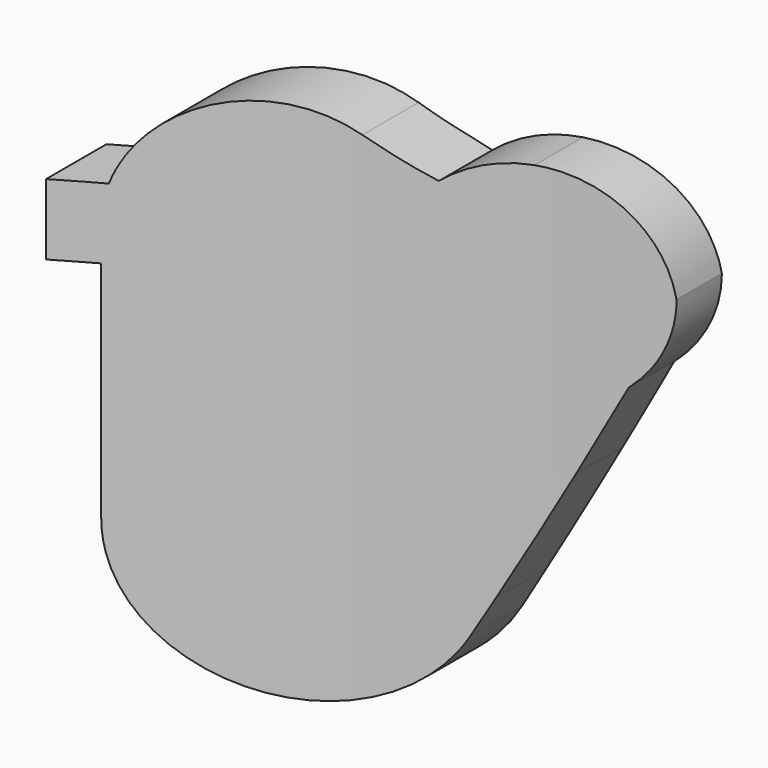
from build123d import *

# Parameters (mm, degrees)
F2_DEPTH = 125
F3_DEPTH = 70


with BuildPart() as f2:
    # F1 (on Top) → F2 (new body, symmetric)
    with BuildSketch(Plane.XY):
        with BuildLine():
            Line((-20.1173815044, -12), (-20.1173815044, 0))
            Line((-20.1173815044, 0), (-62.3327026961, -12))
            ThreePointArc((-62.3327026961, -12), (-94.4307756153, -25.3430684038), (-124.9798869452, -41.9284703137))
            Line((-124.9798869452, -41.9284703137), (-124.9798869452, -57.8970238566))
            ThreePointArc((-124.9798869452, -57.8970238566), (-74.0948586353, -31.4157999565), (-20.1173815044, -12))
        make_face()
    extrude(amount=F2_DEPTH, both=True)

    # F0 (on Front) → F3 (intersect)
    with BuildSketch(Plane.XZ):
        with BuildLine():
            ThreePointArc((-50.3424681349, 2.011881357), (-43.7035916624, 14.6823543144), (-37.1786620038, 27.411881357))
            Line((-37.1786620038, 27.411881357), (-40.5631333527, 27.411881357))
            Line((-40.5631333527, 27.411881357), (-53.0749750304, 2.011881357))
            Line((-53.0749750304, 2.011881357), (-50.3424681349, 2.011881357))
        make_face()
        with BuildLine():
            ThreePointArc((-111.5308457017, 8.2367736608), (-111.3684921212, 5.1075260751), (-110.883174785, 2.011881357))
            Line((-110.883174785, 2.011881357), (-108.5308457017, 2.011881357))
            Line((-108.5308457017, 2.011881357), (-108.5308457017, 27.411881357))
            Line((-108.5308457017, 27.411881357), (-111.5308457017, 27.411881357))
            Line((-111.5308457017, 27.411881357), (-111.5308457017, 8.2367736608))
        make_face()
        with BuildLine():
            ThreePointArc((-58.7104798901, 72.082701381), (-52.1284588148, 76.9699120882), (-44.1155466177, 78.7022711894))
            Line((-44.1155466177, 78.7022711894), (-44.1155466177, 83.6194937793))
            ThreePointArc((-44.1155466177, 83.6194937793), (-52.4168726575, 82.1584911266), (-59.720801287, 77.9514530539))
            Line((-59.720801287, 77.9514530539), (-58.7104798901, 72.0827013811))
        make_face()
        with BuildLine():
            ThreePointArc((-74.6417350745, 80.4472095387), (-66.8801209506, 75.8763862144), (-58.7104798901, 72.082701381))
            Line((-58.7104798901, 72.0827013811), (-59.720801287, 77.9514530539))
            ThreePointArc((-59.720801287, 77.9514530539), (-65.9419328873, 81.0470499739), (-71.8975987059, 84.6268884248))
            ThreePointArc((-71.8975987059, 84.6268884248), (-94.6263251651, 87.3063473236), (-110.4082532694, 70.7321127484))
            Line((-110.4082532694, 70.7321127484), (-105.1175635416, 70.7325836032))
            ThreePointArc((-105.1175635416, 70.7325836032), (-92.1947547892, 82.8526319552), (-74.6417350745, 80.4472095387))
        make_face()
        with BuildLine():
            ThreePointArc((-111.1327510691, 67.7321127484), (-110.8157710876, 69.2430451589), (-110.4082532694, 70.7321127484))
            Line((-110.4082532694, 70.7321127484), (-119.5308457017, 70.7321127484))
            Line((-119.5308457017, 70.7321127484), (-119.5308457017, 63.235962727))
            Line((-119.5308457017, 63.235962727), (-119.5308457017, 55.7321127484))
            Line((-119.5308457017, 55.7321127484), (-111.5308457017, 55.7321127484))
            Line((-111.5308457017, 55.7321127484), (-111.5308457017, 58.7321127484))
            Line((-111.5308457017, 58.7321127484), (-116.5308457017, 58.7321127484))
            Line((-116.5308457017, 58.7321127484), (-116.5308457017, 67.7321127484))
            Line((-116.5308457017, 67.7321127484), (-111.1327510691, 67.7321127484))
        make_face()
        with BuildLine():
            ThreePointArc((-106.5308457017, 63.235962727), (-106.1744404196, 67.0503005144), (-105.1175635416, 70.7325836032))
            Line((-105.1175635416, 70.7325836032), (-110.4082532694, 70.7321127484))
            ThreePointArc((-110.4082532694, 70.7321127484), (-110.8157710876, 69.2430451589), (-111.1327510691, 67.7321127484))
            ThreePointArc((-111.1327510691, 67.7321127484), (-111.4311277492, 65.4928324813), (-111.5308457017, 63.235962727))
            Line((-111.5308457017, 63.235962727), (-106.5308457017, 63.235962727))
        make_face()
        with BuildLine():
            Line((-44.1155466177, 83.6194937793), (-44.1155466177, 78.7022711894))
            ThreePointArc((-44.1155466177, 78.7022711894), (-35.3223638904, 76.5954709648), (-28.4390725201, 70.7321127484))
            Line((-28.4390725201, 70.7321127484), (-25.125950558, 70.7321127484))
            Line((-25.125950558, 70.7321127484), (-25.125950558, 67.7321127484))
            Line((-25.125950558, 67.7321127484), (-25.125950558, 63.2777618764))
            ThreePointArc((-25.125950558, 63.2777618764), (-25.1216548902, 63.2571921801), (-25.1173815044, 63.2366178431))
            Line((-25.1173815044, 63.2366178431), (-21.4978827913, 63.2366178431))
            Line((-21.4978827913, 63.2366178431), (-20.1173815044, 63.2366178431))
            ThreePointArc((-20.1173815044, 63.2366178431), (-28.3723488637, 77.8362607667), (-44.1155466177, 83.6194937793))
        make_face()
        with BuildLine():
            ThreePointArc((-28.3113232287, 45.1775518031), (-22.2616675499, 53.3210929585), (-20.1173815044, 63.2366178431))
            Line((-20.1173815044, 63.2366178431), (-21.4978827913, 63.2366178431))
            Line((-21.4978827913, 63.2366178431), (-25.1173815044, 63.2366178431))
            ThreePointArc((-25.1173815044, 63.2366178431), (-25.1195239016, 62.9513190082), (-25.125950558, 62.6660845201))
            Line((-25.125950558, 62.6660845201), (-25.125950558, 58.7321127484))
            Line((-25.125950558, 58.7321127484), (-25.125950558, 55.7321127484))
            Line((-25.125950558, 55.7321127484), (-26.6624366413, 55.7321127484))
            ThreePointArc((-26.6624366413, 55.7321127484), (-29.0361784259, 51.6807182081), (-32.3311047694, 48.3352872686))
            ThreePointArc((-32.3311047694, 48.3352872686), (-45.4552623154, 22.1922845204), (-59.058353819, -3.7047424426))
            ThreePointArc((-59.058353819, -3.7047424426), (-87.4494412294, -16.2389147483), (-106.5308457017, 8.2367736608))
            Line((-106.5308457017, 8.2367736608), (-106.5308457017, 63.235962727))
            Line((-106.5308457017, 63.235962727), (-111.5308457017, 63.235962727))
            Line((-111.5308457017, 63.235962727), (-111.5308457017, 60.235962727))
            Line((-111.5308457017, 60.235962727), (-111.5308457017, 58.7321127484))
            Line((-111.5308457017, 58.7321127484), (-111.5308457017, 55.7321127484))
            Line((-111.5308457017, 55.7321127484), (-111.5308457017, 46.235962727))
            Line((-111.5308457017, 46.235962727), (-111.5308457017, 43.235962727))
            Line((-111.5308457017, 43.235962727), (-111.5308457017, 27.411881357))
            Line((-111.5308457017, 27.411881357), (-108.5308457017, 27.411881357))
            Line((-108.5308457017, 27.411881357), (-108.5308457017, 2.011881357))
            Line((-108.5308457017, 2.011881357), (-110.883174785, 2.011881357))
            ThreePointArc((-110.883174785, 2.011881357), (-85.5948591136, -21.6937784963), (-54.6534526738, -6.0705078369))
            ThreePointArc((-54.6534526738, -6.0705078369), (-52.4921556845, -2.0324093613), (-50.3424681349, 2.011881357))
            Line((-50.3424681349, 2.011881357), (-53.0749750304, 2.011881357))
            Line((-53.0749750304, 2.011881357), (-40.5631333527, 27.411881357))
            Line((-40.5631333527, 27.411881357), (-37.1786620038, 27.411881357))
            ThreePointArc((-37.1786620038, 27.411881357), (-32.7173355733, 36.2809121829), (-28.3113232287, 45.1775518031))
        make_face()
        with BuildLine():
            ThreePointArc((-59.7874298203, 70.7366178431), (-59.2639132157, 71.4216272239), (-58.7104798901, 72.082701381))
            ThreePointArc((-58.7104798901, 72.082701381), (-66.8801209506, 75.8763862144), (-74.6417350745, 80.4472095387))
            ThreePointArc((-74.6417350745, 80.4472095387), (-92.1947547892, 82.8526319552), (-105.1175635416, 70.7325836032))
            Line((-105.1175635416, 70.7325836032), (-59.7874298203, 70.7366178431))
        make_face()
        with BuildLine():
            Line((-44.1625017472, 58.3259770467), (-44.1384770042, 73.0866154512))
            ThreePointArc((-44.1384770042, 73.0866154512), (-52.6930688519, 70.3809469556), (-58.1126715156, 63.2304511227))
            ThreePointArc((-58.1126715156, 63.2304511227), (-51.5611714322, 59.5733795212), (-44.1625017472, 58.3259770467))
        make_face()
        with BuildLine():
            ThreePointArc((-30.2525475407, 63.3421322906), (-35.6608853062, 70.4012237485), (-44.1384770042, 73.0866154512))
            Line((-44.1384770042, 73.0866154512), (-44.1625017472, 58.3259770467))
            ThreePointArc((-44.1625017472, 58.3259770467), (-36.7743073798, 59.6327297467), (-30.2525475407, 63.3421322906))
        make_face()
        with BuildLine():
            ThreePointArc((-28.4390725201, 70.7321127484), (-35.3223638904, 76.5954709648), (-44.1155466177, 78.7022711894))
            Line((-44.1155466177, 78.7022711894), (-44.1384770042, 73.0866154512))
            ThreePointArc((-44.1384770042, 73.0866154512), (-35.6608853062, 70.4012237485), (-30.2525475407, 63.3421322906))
            ThreePointArc((-30.2525475407, 63.3421322906), (-29.9896602119, 65.238638267), (-29.125950558, 66.9473952129))
            Line((-29.125950558, 66.9473952129), (-29.125950558, 67.7321127484))
            Line((-29.125950558, 67.7321127484), (-29.125950558, 70.7321127484))
            Line((-29.125950558, 70.7321127484), (-28.4390725201, 70.7321127484))
        make_face()
        with BuildLine():
            Line((-44.1384770042, 73.0866154512), (-44.1155466177, 78.7022711894))
            ThreePointArc((-44.1155466177, 78.7022711894), (-52.1284588148, 76.9699120882), (-58.7104798901, 72.082701381))
            ThreePointArc((-58.7104798901, 72.082701381), (-59.2639132157, 71.4216272239), (-59.7874298203, 70.7366178431))
            ThreePointArc((-59.7874298203, 70.7366178431), (-61.8511548442, 67.1637844674), (-63.1126715156, 63.2353401198))
            Line((-63.1126715156, 63.2353401197), (-58.1126715156, 63.2304511227))
            ThreePointArc((-58.1126715156, 63.2304511227), (-52.6930688519, 70.3809469556), (-44.1384770042, 73.0866154512))
        make_face()
        with BuildLine():
            ThreePointArc((-29.125950558, 60.0559074311), (-29.9399958244, 61.6130578308), (-30.2525475407, 63.3421322906))
            ThreePointArc((-30.2525475407, 63.3421322906), (-36.7743073798, 59.6327297467), (-44.1625017472, 58.3259770467))
            Line((-44.1625017472, 58.3259770467), (-44.1625663386, 58.2862925416))
            Line((-44.1625663386, 58.2862925416), (-44.1143876699, 44.2389745578))
            ThreePointArc((-44.1143876699, 44.2389745578), (-37.8769249189, 45.2923557317), (-32.3311047694, 48.3352872686))
            ThreePointArc((-32.3311047694, 48.3352872686), (-29.0361784259, 51.6807182081), (-26.6624366413, 55.7321127484))
            Line((-26.6624366413, 55.7321127484), (-29.125950558, 55.7321127484))
            Line((-29.125950558, 55.7321127484), (-29.125950558, 58.7321127484))
            Line((-29.125950558, 58.7321127484), (-29.125950558, 60.0559074311))
        make_face()
        with BuildLine():
            ThreePointArc((-63.1126715156, 63.2353401198), (-61.8511548442, 67.1637844674), (-59.7874298203, 70.7366178431))
            Line((-59.7874298203, 70.7366178431), (-105.1175635416, 70.7325836032))
            ThreePointArc((-105.1175635416, 70.7325836032), (-106.1744404196, 67.0503005144), (-106.5308457017, 63.235962727))
            Line((-106.5308457017, 63.235962727), (-63.1126715156, 63.2353401197))
        make_face()
        with BuildLine():
            ThreePointArc((-44.1625017472, 58.3259770467), (-51.5611714322, 59.5733795212), (-58.1126715156, 63.2304511227))
            Line((-58.1126715156, 63.2304511227), (-63.1126715156, 63.2353401197))
            ThreePointArc((-63.1126715156, 63.2353401198), (-57.5477119125, 49.8025777389), (-44.1143876699, 44.2389745578))
            Line((-44.1143876699, 44.2389745578), (-44.1625663386, 58.2862925416))
            Line((-44.1625663386, 58.2862925416), (-44.1625017472, 58.3259770467))
        make_face()
        with BuildLine():
            ThreePointArc((-44.1143876699, 44.2389745578), (-57.5477119125, 49.8025777389), (-63.1126715156, 63.2353401198))
            Line((-63.1126715156, 63.2353401197), (-106.5308457017, 63.235962727))
            Line((-106.5308457017, 63.235962727), (-106.5308457017, 8.2367736608))
            ThreePointArc((-106.5308457017, 8.2367736608), (-87.4494412294, -16.2389147483), (-59.058353819, -3.7047424426))
            ThreePointArc((-59.058353819, -3.7047424426), (-45.4552623154, 22.1922845204), (-32.3311047694, 48.3352872686))
            ThreePointArc((-32.3311047694, 48.3352872686), (-37.8769249189, 45.2923557317), (-44.1143876699, 44.2389745578))
        make_face()
        with BuildLine():
            Line((-111.5308457017, 60.235962727), (-111.5308457017, 63.235962727))
            ThreePointArc((-111.5308457017, 63.235962727), (-111.4311277492, 65.4928324813), (-111.1327510691, 67.7321127484))
            Line((-111.1327510691, 67.7321127484), (-116.5308457017, 67.7321127484))
            Line((-116.5308457017, 67.7321127484), (-116.5308457017, 58.7321127484))
            Line((-116.5308457017, 58.7321127484), (-111.5308457017, 58.7321127484))
            Line((-111.5308457017, 58.7321127484), (-111.5308457017, 60.235962727))
        make_face()
        with BuildLine():
            ThreePointArc((-27.7727110675, 58.7321127484), (-28.5034805512, 59.3386559133), (-29.125950558, 60.0559074311))
            Line((-29.125950558, 60.0559074311), (-29.125950558, 58.7321127484))
            Line((-29.125950558, 58.7321127484), (-27.7727110675, 58.7321127484))
        make_face()
        with BuildLine():
            ThreePointArc((-29.125950558, 66.9473952129), (-29.9896602119, 65.238638267), (-30.2525475407, 63.3421322906))
            Line((-30.2525475407, 63.3421322906), (-29.125950558, 63.3189836217))
            Line((-29.125950558, 63.3189836217), (-29.125950558, 66.9473952129))
        make_face()
        with BuildLine():
            ThreePointArc((-26.641623153, 67.7321127484), (-26.876272417, 68.2020802958), (-27.1235592075, 68.6655228662))
            ThreePointArc((-27.1235592075, 68.6655228662), (-27.8108334836, 68.2442520617), (-28.4333512304, 67.7321127484))
            Line((-28.4333512304, 67.7321127484), (-26.641623153, 67.7321127484))
        make_face()
        with BuildLine():
            Line((-25.6591349294, 58.7321127484), (-27.7727110675, 58.7321127484))
            ThreePointArc((-27.7727110675, 58.7321127484), (-26.8716219424, 58.2140455013), (-25.8927896329, 57.8644134178))
            ThreePointArc((-25.8927896329, 57.8644134178), (-25.7708311795, 58.2968813763), (-25.6591349294, 58.7321127484))
        make_face()
        with BuildLine():
            Line((-29.125950558, 63.3189836217), (-30.2525475407, 63.3421322906))
            ThreePointArc((-30.2525475407, 63.3421322906), (-29.9399958244, 61.6130578308), (-29.125950558, 60.0559074311))
            Line((-29.125950558, 60.0559074311), (-29.125950558, 63.3189836217))
        make_face()
        with BuildLine():
            Line((-25.125950558, 70.7321127484), (-28.4390725201, 70.7321127484))
            ThreePointArc((-28.4390725201, 70.7321127484), (-27.748664344, 69.7196025355), (-27.1235592075, 68.6655228662))
            ThreePointArc((-27.1235592075, 68.6655228662), (-26.876272417, 68.2020802958), (-26.641623153, 67.7321127484))
            Line((-26.641623153, 67.7321127484), (-25.125950558, 67.7321127484))
            Line((-25.125950558, 67.7321127484), (-25.125950558, 70.7321127484))
        make_face()
        with BuildLine():
            ThreePointArc((-27.1235592075, 68.6655228662), (-27.748664344, 69.7196025355), (-28.4390725201, 70.7321127484))
            Line((-28.4390725201, 70.7321127484), (-29.125950558, 70.7321127484))
            Line((-29.125950558, 70.7321127484), (-29.125950558, 67.7321127484))
            Line((-29.125950558, 67.7321127484), (-28.4333512304, 67.7321127484))
            ThreePointArc((-28.4333512304, 67.7321127484), (-27.8108334836, 68.2442520617), (-27.1235592075, 68.6655228662))
        make_face()
        with BuildLine():
            ThreePointArc((-25.8927896329, 57.8644134178), (-26.8716219424, 58.2140455013), (-27.7727110675, 58.7321127484))
            Line((-27.7727110675, 58.7321127484), (-29.125950558, 58.7321127484))
            Line((-29.125950558, 58.7321127484), (-29.125950558, 55.7321127484))
            Line((-29.125950558, 55.7321127484), (-26.6624366413, 55.7321127484))
            ThreePointArc((-26.6624366413, 55.7321127484), (-26.2457793974, 56.786772798), (-25.8927896329, 57.8644134178))
        make_face()
        with BuildLine():
            Line((-25.125950558, 67.7321127484), (-26.641623153, 67.7321127484))
            ThreePointArc((-26.641623153, 67.7321127484), (-25.7482509185, 65.5510558403), (-25.125950558, 63.2777618764))
            Line((-25.125950558, 63.2777618764), (-25.125950558, 67.7321127484))
        make_face()
        with BuildLine():
            Line((-25.125950558, 63.2367939151), (-29.125950558, 63.3189836217))
            Line((-29.125950558, 63.3189836217), (-29.125950558, 60.0559074311))
            ThreePointArc((-29.125950558, 60.0559074311), (-28.5034805512, 59.3386559133), (-27.7727110675, 58.7321127484))
            Line((-27.7727110675, 58.7321127484), (-25.6591349294, 58.7321127484))
            ThreePointArc((-25.6591349294, 58.7321127484), (-25.289500439, 60.6851329655), (-25.125950558, 62.6660845201))
            Line((-25.125950558, 62.6660845201), (-25.125950558, 63.2367939151))
        make_face()
        with BuildLine():
            ThreePointArc((-29.125950558, 66.9473952129), (-28.7973156506, 67.3553450664), (-28.4333512304, 67.7321127484))
            Line((-28.4333512304, 67.7321127484), (-29.125950558, 67.7321127484))
            Line((-29.125950558, 67.7321127484), (-29.125950558, 66.9473952129))
        make_face()
        with BuildLine():
            ThreePointArc((-25.6591349294, 58.7321127484), (-25.7708311795, 58.2968813763), (-25.8927896329, 57.8644134178))
            ThreePointArc((-25.8927896329, 57.8644134178), (-26.2457793974, 56.786772798), (-26.6624366413, 55.7321127484))
            Line((-26.6624366413, 55.7321127484), (-25.125950558, 55.7321127484))
            Line((-25.125950558, 55.7321127484), (-25.125950558, 58.7321127484))
            Line((-25.125950558, 58.7321127484), (-25.6591349294, 58.7321127484))
        make_face()
        with BuildLine():
            ThreePointArc((-25.125950558, 63.2777618764), (-25.7482509185, 65.5510558403), (-26.641623153, 67.7321127484))
            Line((-26.641623153, 67.7321127484), (-28.4333512304, 67.7321127484))
            ThreePointArc((-28.4333512304, 67.7321127484), (-28.7973156506, 67.3553450664), (-29.125950558, 66.9473952129))
            Line((-29.125950558, 66.9473952129), (-29.125950558, 63.3189836217))
            Line((-29.125950558, 63.3189836217), (-25.125950558, 63.2367939151))
            Line((-25.125950558, 63.2367939151), (-25.125950558, 63.2777618764))
        make_face()
        with BuildLine():
            Line((-25.125950558, 58.7321127484), (-25.125950558, 62.6660845201))
            ThreePointArc((-25.125950558, 62.6660845201), (-25.289500439, 60.6851329655), (-25.6591349294, 58.7321127484))
            Line((-25.6591349294, 58.7321127484), (-25.125950558, 58.7321127484))
        make_face()
        with BuildLine():
            ThreePointArc((-25.1173815044, 63.2366178431), (-25.1216548902, 63.2571921801), (-25.125950558, 63.2777618764))
            Line((-25.125950558, 63.2777618764), (-25.125950558, 63.2367939151))
            Line((-25.125950558, 63.2367939151), (-25.1173815044, 63.2366178431))
        make_face()
        with BuildLine():
            ThreePointArc((-25.125950558, 62.6660845201), (-25.1195239016, 62.9513190082), (-25.1173815044, 63.2366178431))
            Line((-25.1173815044, 63.2366178431), (-25.125950558, 63.2367939151))
            Line((-25.125950558, 63.2367939151), (-25.125950558, 62.6660845201))
        make_face()
    extrude(amount=F3_DEPTH, mode=Mode.INTERSECT)


solid = f2.part
